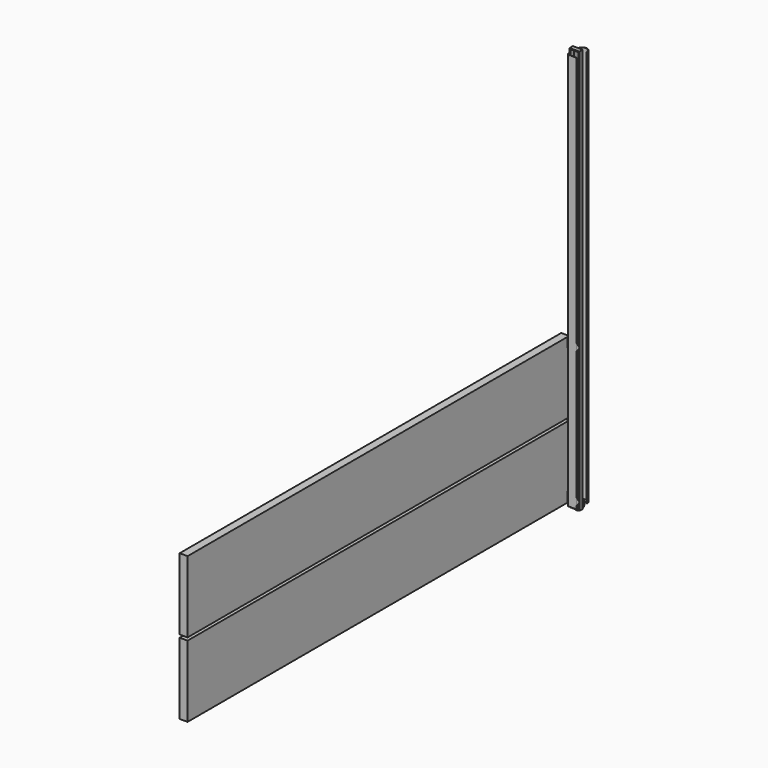
from build123d import *

# Parameters (mm, degrees)
F1_DEPTH = 2540
F4_DEPTH = 25.4
F5_DEPTH = 25.4
F6_DEPTH = 3048
F7_DEPTH = 12.7


with BuildPart() as f1:
    # F0 (on Top) → F1 (new body)
    with BuildSketch(Plane.XY):
        with BuildLine():
            ThreePointArc((-34.1031024396, -30.0004556775), (-38.5932305002, -28.140583738), (-40.4531024396, -23.6504556775))
            Line((-40.4531024396, -23.6504556775), (-40.4531024396, 50.3627583385))
            ThreePointArc((-40.4531024396, 50.3627583385), (-11.8095632643, 79.0062975138), (16.8339759111, 50.3627583385))
            Line((16.8339759111, 50.3627583385), (18.8659759111, 50.3627583385))
            ThreePointArc((18.8659759111, 50.3627583385), (-11.8095632643, 81.0382975138), (-42.4851024396, 50.3627583385))
            Line((-42.4851024396, 50.3627583385), (-42.4851024396, -23.6504556775))
            ThreePointArc((-42.4851024396, -23.6504556775), (-40.0300714795, -29.5774247174), (-34.1031024396, -32.0324556775))
            Line((-34.1031024396, -32.0324556775), (16.8339759111, -32.0324556775))
            Line((16.8339759111, -32.0324556775), (16.8339759111, -30.0004556775))
            Line((16.8339759111, -30.0004556775), (-34.1031024396, -30.0004556775))
        make_face()
    extrude(amount=F1_DEPTH)


with BuildPart() as f2:
    # F0 (on Top) → F2 (revolve)
    with BuildSketch(Plane.XY):
        with BuildLine():
            Line((11.0591379926, 20.402347669), (11.0591379926, 34.5144569874))
            ThreePointArc((11.0591379926, 34.5144569874), (-8.201779332, 53.775374312), (-27.4626966566, 34.5144569874))
            Line((-27.4626966566, 34.5144569874), (-27.4626966566, 20.402347669))
            Line((-27.4626966566, 20.402347669), (11.0591379926, 20.402347669))
        make_face()
    revolve(axis=Axis((-8.201779332, 20.402347669, 0), (1, 0, 0)))


with BuildPart() as f4:
    # F3 (on Front) → F4 (new body)
    with BuildSketch(Plane.XZ):
        Polygon((-31.75, 888.9787460817), (-31.75, 56.6941154313), (-25.4, 53.0279412219), (-25.4, 892.644920291), align=None)
        Polygon((-25.4, 53.0279412219), (-31.75, 56.6941154313), (-31.75, 20.0323733378), (-25.4, 23.6985475471), (-25.4, 38.3632443845), align=None)
        Polygon((-25.4, 23.6985475471), (-31.75, 20.0323733378), (-31.75, -6.35), (31.75, -6.35), (31.75, 2576.9899427727), (-31.75, 2576.9899427727), (-31.75, 925.6404881752), (-25.4, 921.9743139658), (-25.4, 2570.6399427727), (25.4, 2570.6399427727), (25.4, 907.3096171284), (25.4, 38.3632443845), (25.4, 0), (-25.4, 0), align=None)
        Polygon((-31.75, 925.6404881752), (-31.75, 888.9787460817), (-25.4, 892.644920291), (-25.4, 907.3096171284), (-25.4, 921.9743139658), align=None)
    extrude(amount=F4_DEPTH)


with BuildPart() as f5:
    # F3 (on Front) → F5 (new body)
    with BuildSketch(Plane.XZ):
        with BuildLine():
            Line((0, 907.3096171284), (-21.9970452561, 894.6096171284))
            ThreePointArc((-21.9970452561, 894.6096171284), (6.5740037456, 882.7751011407), (25.4, 907.3096171284))
            ThreePointArc((25.4, 907.3096171284), (6.5740037456, 931.8441331162), (-21.9970452561, 920.0096171284))
            Line((-21.9970452561, 920.0096171284), (0, 907.3096171284))
        make_face()
        with BuildLine():
            ThreePointArc((-21.9970452561, 920.0096171284), (-24.5345159877, 913.883620874), (-25.4, 907.3096171284))
            ThreePointArc((-25.4, 907.3096171284), (-24.5345159877, 900.7356133828), (-21.9970452561, 894.6096171284))
            Line((-21.9970452561, 894.6096171284), (0, 907.3096171284))
            Line((0, 907.3096171284), (-21.9970452561, 920.0096171284))
        make_face()
    extrude(amount=F5_DEPTH)


with BuildPart() as f5b:
    # F3 (on Front) → F5, piece 2 (new body)
    with BuildSketch(Plane.XZ):
        with BuildLine():
            ThreePointArc((25.4, 38.3632443845), (6.5740037456, 62.8977603723), (-21.9970452561, 51.0632443845))
            Line((-21.9970452561, 51.0632443845), (0, 38.3632443845))
            Line((0, 38.3632443845), (-21.9970452561, 25.6632443845))
            ThreePointArc((-21.9970452561, 25.6632443845), (6.5740037456, 13.8287283968), (25.4, 38.3632443845))
        make_face()
        with BuildLine():
            ThreePointArc((-21.9970452561, 51.0632443845), (-24.5345159877, 44.9372481301), (-25.4, 38.3632443845))
            ThreePointArc((-25.4, 38.3632443845), (-24.5345159877, 31.7892406389), (-21.9970452561, 25.6632443845))
            Line((-21.9970452561, 25.6632443845), (0, 38.3632443845))
            Line((0, 38.3632443845), (-21.9970452561, 51.0632443845))
        make_face()
    extrude(amount=F5_DEPTH)


with BuildPart() as f6:
    # F3 (on Front) → F6 (new body)
    with BuildSketch(Plane.XZ):
        Polygon((-54.9926131403, 463.8132443845), (-105.7926131403, 463.8132443845), (-105.7926131403, 443.9561963081), (-105.7926131403, 6.6132443845), (-54.9926131403, 6.6132443845), (-54.9926131403, 70.1132443845), align=None)
    extrude(amount=F6_DEPTH)


with BuildPart() as f6b:
    # F3 (on Front) → F6, piece 2 (new body)
    with BuildSketch(Plane.XZ):
        Polygon((-105.7926131403, 939.0596171284), (-105.7926131403, 504.0543675423), (-105.7926131403, 481.8596171284), (-54.9926131403, 481.8596171284), (-54.9926131403, 875.5596171284), (-54.9926131403, 939.0596171284), align=None)
    extrude(amount=F6_DEPTH)


with BuildPart() as f7:
    # F3 (on Front) → F7 (new body)
    with BuildSketch(Plane.XZ):
        Polygon((-31.75, 56.6941154313), (-54.9926131403, 70.1132443845), (-54.9926131403, 6.6132443845), (-31.75, 20.0323733378), align=None)
        Polygon((-25.4, 53.0279412219), (-31.75, 56.6941154313), (-31.75, 20.0323733378), (-25.4, 23.6985475471), (-25.4, 38.3632443845), align=None)
        with BuildLine():
            Line((-21.9970452561, 51.0632443845), (-25.4, 53.0279412219))
            Line((-25.4, 53.0279412219), (-25.4, 38.3632443845))
            ThreePointArc((-25.4, 38.3632443845), (-24.5345159877, 44.9372481301), (-21.9970452561, 51.0632443845))
        make_face()
        with BuildLine():
            Line((-25.4, 38.3632443845), (-25.4, 23.6985475471))
            Line((-25.4, 23.6985475471), (-21.9970452561, 25.6632443845))
            ThreePointArc((-21.9970452561, 25.6632443845), (-24.5345159877, 31.7892406389), (-25.4, 38.3632443845))
        make_face()
        with BuildLine():
            ThreePointArc((-21.9970452561, 51.0632443845), (-24.5345159877, 44.9372481301), (-25.4, 38.3632443845))
            ThreePointArc((-25.4, 38.3632443845), (-24.5345159877, 31.7892406389), (-21.9970452561, 25.6632443845))
            Line((-21.9970452561, 25.6632443845), (0, 38.3632443845))
            Line((0, 38.3632443845), (-21.9970452561, 51.0632443845))
        make_face()
    extrude(amount=F7_DEPTH)


with BuildPart() as f7b:
    # F3 (on Front) → F7, piece 2 (new body)
    with BuildSketch(Plane.XZ):
        with BuildLine():
            Line((-105.7926131403, 443.9561963081), (-105.7926131403, 463.8132443845))
            Line((-105.7926131403, 463.8132443845), (-119.1975950117, 470.5311259368))
            ThreePointArc((-119.1975950117, 470.5311259368), (-120.1212492294, 469.1750010214), (-121.3696791125, 468.1102781809))
            Line((-121.3696791125, 468.1102781809), (-105.7926131403, 443.9561963081))
        make_face()
        with BuildLine():
            Line((-105.7926131403, 504.0543675423), (-121.4809104986, 478.5507489636))
            ThreePointArc((-121.4809104986, 478.5507489636), (-120.0838953154, 477.3739435095), (-119.0926562734, 475.8396789754))
            Line((-119.0926562734, 475.8396789754), (-105.7926131403, 481.8596171284))
            Line((-105.7926131403, 481.8596171284), (-105.7926131403, 504.0543675423))
        make_face()
        with BuildLine():
            Line((-124.7136369348, 473.2954800129), (-119.1975950117, 470.5311259368))
            ThreePointArc((-119.1975950117, 470.5311259368), (-118.709383668, 471.8751579844), (-118.5436797262, 473.2954800129))
            ThreePointArc((-118.5436797262, 473.2954800129), (-118.6824852161, 474.5968565543), (-119.0926562734, 475.8396789754))
            Line((-119.0926562734, 475.8396789754), (-124.7136369348, 473.2954800129))
        make_face()
        with BuildLine():
            ThreePointArc((-121.4809104986, 478.5507489636), (-130.883244013, 473.2297498403), (-121.3696791125, 468.1102781809))
            Line((-121.3696791125, 468.1102781809), (-124.7136369348, 473.2954800129))
            Line((-124.7136369348, 473.2954800129), (-121.4809104986, 478.5507489636))
        make_face()
        with BuildLine():
            Line((-121.4809104986, 478.5507489636), (-124.7136369348, 473.2954800129))
            Line((-124.7136369348, 473.2954800129), (-119.0926562734, 475.8396789754))
            ThreePointArc((-119.0926562734, 475.8396789754), (-120.0838953154, 477.3739435095), (-121.4809104986, 478.5507489636))
        make_face()
        with BuildLine():
            ThreePointArc((-121.3696791125, 468.1102781809), (-120.1212492294, 469.1750010214), (-119.1975950117, 470.5311259368))
            Line((-119.1975950117, 470.5311259368), (-124.7136369348, 473.2954800129))
            Line((-124.7136369348, 473.2954800129), (-121.3696791125, 468.1102781809))
        make_face()
    extrude(amount=F7_DEPTH)


with BuildPart() as f7c:
    # F3 (on Front) → F7, piece 3 (new body)
    with BuildSketch(Plane.XZ):
        Polygon((-54.9926131403, 875.5596171284), (-31.75, 888.9787460817), (-31.75, 925.6404881752), (-54.9926131403, 939.0596171284), align=None)
        Polygon((-31.75, 925.6404881752), (-31.75, 888.9787460817), (-25.4, 892.644920291), (-25.4, 907.3096171284), (-25.4, 921.9743139658), align=None)
        with BuildLine():
            ThreePointArc((-21.9970452561, 920.0096171284), (-24.5345159877, 913.883620874), (-25.4, 907.3096171284))
            ThreePointArc((-25.4, 907.3096171284), (-24.5345159877, 900.7356133828), (-21.9970452561, 894.6096171284))
            Line((-21.9970452561, 894.6096171284), (0, 907.3096171284))
            Line((0, 907.3096171284), (-21.9970452561, 920.0096171284))
        make_face()
        with BuildLine():
            Line((-21.9970452561, 920.0096171284), (-25.4, 921.9743139658))
            Line((-25.4, 921.9743139658), (-25.4, 907.3096171284))
            ThreePointArc((-25.4, 907.3096171284), (-24.5345159877, 913.883620874), (-21.9970452561, 920.0096171284))
        make_face()
        with BuildLine():
            Line((-25.4, 907.3096171284), (-25.4, 892.644920291))
            Line((-25.4, 892.644920291), (-21.9970452561, 894.6096171284))
            ThreePointArc((-21.9970452561, 894.6096171284), (-24.5345159877, 900.7356133828), (-25.4, 907.3096171284))
        make_face()
    extrude(amount=F7_DEPTH)


solid = Compound([f1.part, f2.part, f4.part, f5.part, f5b.part, f6.part, f6b.part, f7.part, f7b.part, f7c.part])
